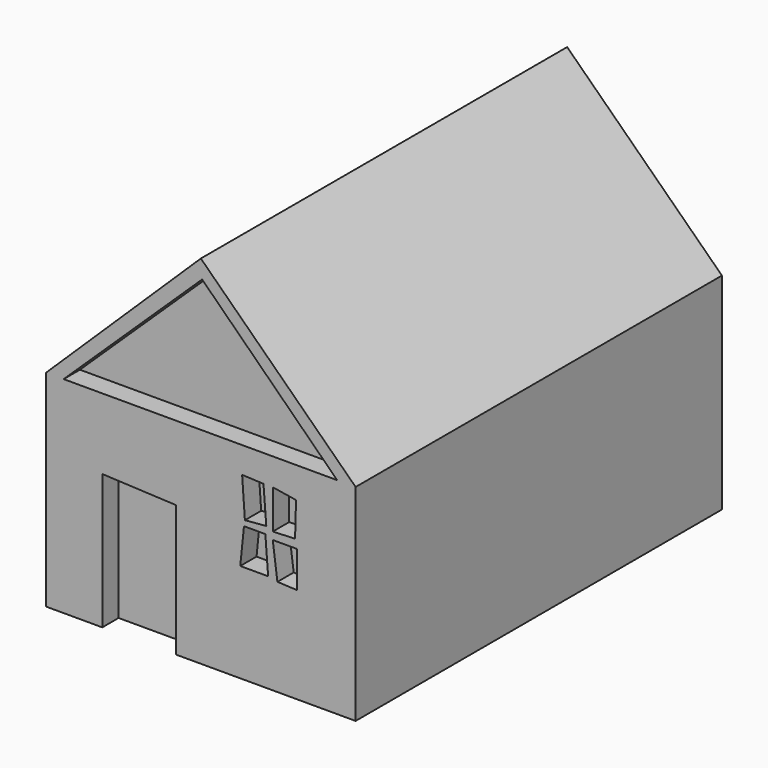
from build123d import *

# Parameters (mm, degrees)
PAD_DEPTH            = 90
POCKET_DEPTH         = 4
BODY_PLACEMENT_ANGLE = 90


with BuildPart() as part:
    # Sketch → Pad (new body)
    with BuildSketch(Plane.XY):
        Polygon((0, 29.646015), (-30.420355, 0), (-30.420355, -40.486725), (30.420351, -40.486725), (30.420351, 0), align=None)
    extrude(amount=PAD_DEPTH)

    # Sketch001 (on Face7 of Pad) → Pocket (cut)
    with BuildSketch(Plane.XY.offset(90)):
        Polygon((-19.370302, -13.946699), (-19.370302, -40.940281), (-4.869621, -40.940281), (-4.869621, -14.615959), align=None)
        Polygon((8.111094, -5.154654), (8.659041, -12.825894), (12.859957, -12.460593), (12.312009, -5.337305), align=None)
        Polygon((14.138495, -5.337304), (14.138495, -13.008539), (18.52206, -12.825896), (18.704708, -6.067894), align=None)
        Polygon((8.476391, -13.921784), (12.677306, -13.921784), (13.225254, -21.045074), (7.745796, -21.045074), align=None)
        Polygon((14.138495, -14.469728), (15.05174, -21.410372), (18.887358, -21.593025), (18.887358, -14.469728), align=None)
        Polygon((-26.966421, 0), (0.250248, 26.098402), (26.797653, 0), align=None)
    extrude(amount=-POCKET_DEPTH, mode=Mode.SUBTRACT)


with BuildPart() as part_1:
    # Body placement: moved
    add(part.part.rotate(Axis((0, 0, 0), (1, 0, 0)), BODY_PLACEMENT_ANGLE))


solid = part_1.part
